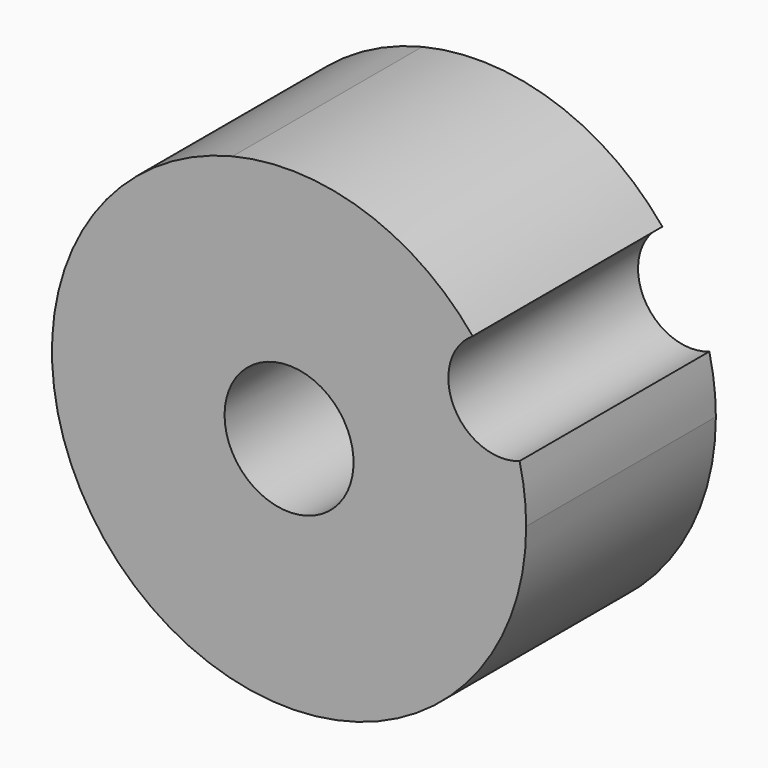
from build123d import *

# Parameters (mm, degrees)
F1_DEPTH = 6.35
F2_D     = 3.4544


with BuildPart() as f1:
    # F0 (on Front) → F1 (new body)
    with BuildSketch(Plane.XZ):
        with BuildLine():
            ThreePointArc((4.9175919376, 4.0174356914), (2.012722134, 6.0225783192), (-1.5140395271, 6.1668617878))
            ThreePointArc((-1.5140395271, 6.1668617878), (-3.9184403149, -4.9968315459), (6.35, 0))
            ThreePointArc((6.35, 0), (6.3059786125, 0.746413919), (6.1745248068, 1.4824788061))
            ThreePointArc((6.1745248068, 1.4824788061), (4.4135292626, 2.1884040834), (4.9175919376, 4.0174356914))
        make_face()
    extrude(amount=F1_DEPTH)

    # F2 (through all)
    with Locations(Plane(origin=(0, 0, 0), x_dir=(1, 0, 0), z_dir=(0, 1, 0))):
        with Locations((0, 0)):
            Hole(F2_D / 2)


solid = f1.part
